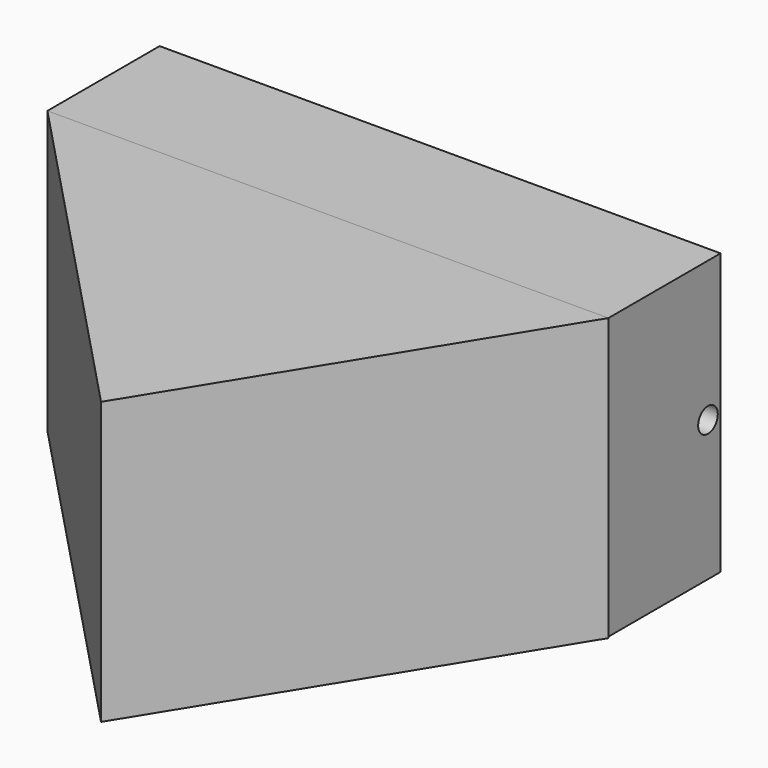
from build123d import *

# Parameters (mm, degrees)
F0_W     = 508
F0_H     = 254
F1_DEPTH = 127
F3_DEPTH = 255.16283
F4_R     = 25.4
F5_DEPTH = 897.97855
F6_R     = 11.1125
F7_DEPTH = 986.37929


with BuildPart() as f1:
    # F0 (on Front) → F1 (new body)
    with BuildSketch(Plane.XZ):
        Rectangle(F0_W, F0_H)
    extrude(amount=F1_DEPTH)

    # F4 (on face) → F5 (cut)
    with BuildSketch(Plane(origin=(-254, 0, 0), x_dir=(0, -1, 0), z_dir=(-1, 0, 0))):
        with Locations((23.774409228, 0)):
            Circle(F4_R)
    extrude(amount=F5_DEPTH, mode=Mode.SUBTRACT)

    # F6 (on face) → F7 (cut)
    with BuildSketch(Plane.YZ.offset(254)):
        with Locations((-14.2875, 0)):
            Circle(F6_R)
    extrude(amount=-F7_DEPTH, mode=Mode.SUBTRACT)


with BuildPart() as f3:
    # F2 (on face) → F3 (new body)
    with BuildSketch(Plane.XY.offset(127)):
        Polygon((53.9908080281, -451.2796989125), (254, -127), (-254, -127), align=None)
    extrude(amount=-F3_DEPTH)


solid = Compound([f1.part, f3.part])
